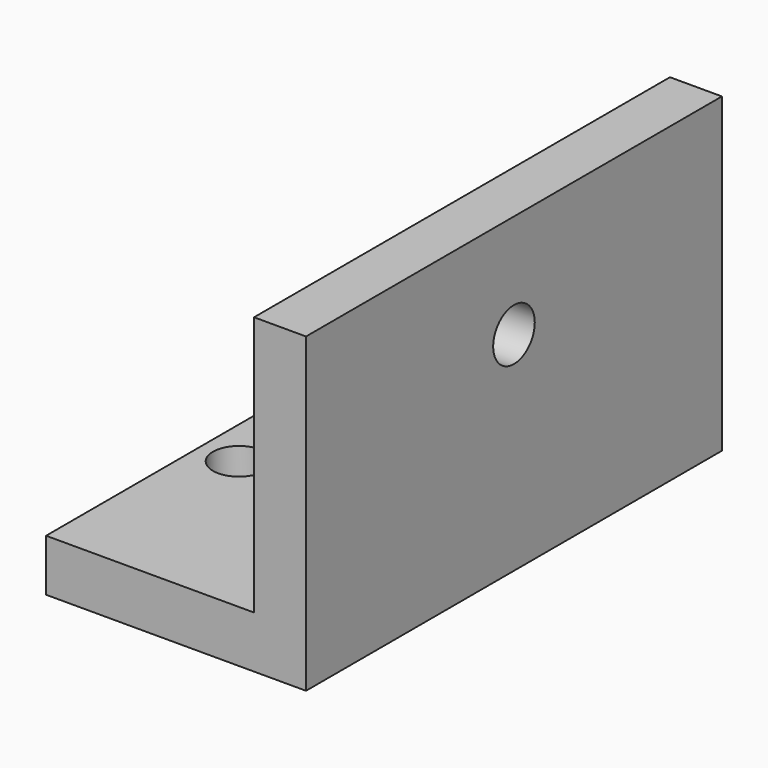
from build123d import *

# Parameters (mm, degrees)
F1_DEPTH = 50
F2_R     = 5
F3_DEPTH = 10
F4_R     = 5
F5_DEPTH = 10


with BuildPart() as f1:
    # F0 (on Front) → F1 (new body, symmetric)
    with BuildSketch(Plane.XZ):
        Polygon((0, 10), (0, 0), (50, 0), (50, 60), (40, 60), (40, 10), align=None)
    extrude(amount=F1_DEPTH, both=True)

    # F2 (on face) → F3 (cut, through all)
    with BuildSketch(Plane.YZ.offset(50)):
        with Locations((0, 40)):
            Circle(F2_R)
    extrude(amount=-F3_DEPTH, mode=Mode.SUBTRACT)

    # F4 (on face) → F5 (cut, through all)
    with BuildSketch(Plane.XY.offset(10)):
        with Locations((30, 0)):
            Circle(F4_R)
        with Locations((7.5, 13)):
            Circle(F4_R)
        with Locations((7.5, -13)):
            Circle(F4_R)
    extrude(amount=-F5_DEPTH, mode=Mode.SUBTRACT)


solid = f1.part
